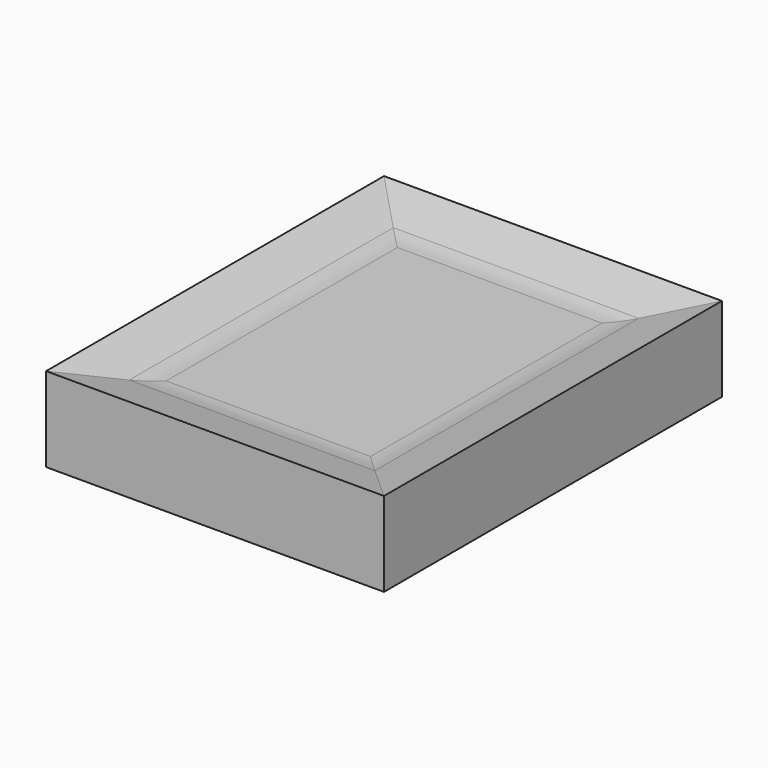
from build123d import *

# Parameters (mm, degrees)
F0_W      = 120
F0_H      = 150
F1_DEPTH  = 30
F1_FACE_W = 120
F1_FACE_H = 150
F3_W      = 80
F3_H      = 110
F5_R      = 30


with BuildPart() as f1:
    # F0 (on Top) → F1 (new body)
    with BuildSketch(Plane.XY):
        with Locations((60, 75)):
            Rectangle(F0_W, F0_H)
    extrude(amount=F1_DEPTH)

    # F1_face (on face) → F4 section 0
    with BuildSketch(Plane(origin=(60, 75, 30), x_dir=(1, 0, 0), z_dir=(0, 0, 1))):
        Rectangle(F1_FACE_W, F1_FACE_H)
    # F3 (on offset) → F4 section 1
    with BuildSketch(Plane.XY.offset(25)):
        with Locations((60, 75)):
            Rectangle(F3_W, F3_H)
    loft(mode=Mode.SUBTRACT)

    # F5
    f5_edges = [f1.edges().sort_by_distance(p)[0] for p in [
        (20, 75, 25),
        (60, 20, 25),
        (100, 75, 25),
        (60, 130, 25),
    ]]
    fillet(f5_edges, radius=F5_R)


solid = f1.part
